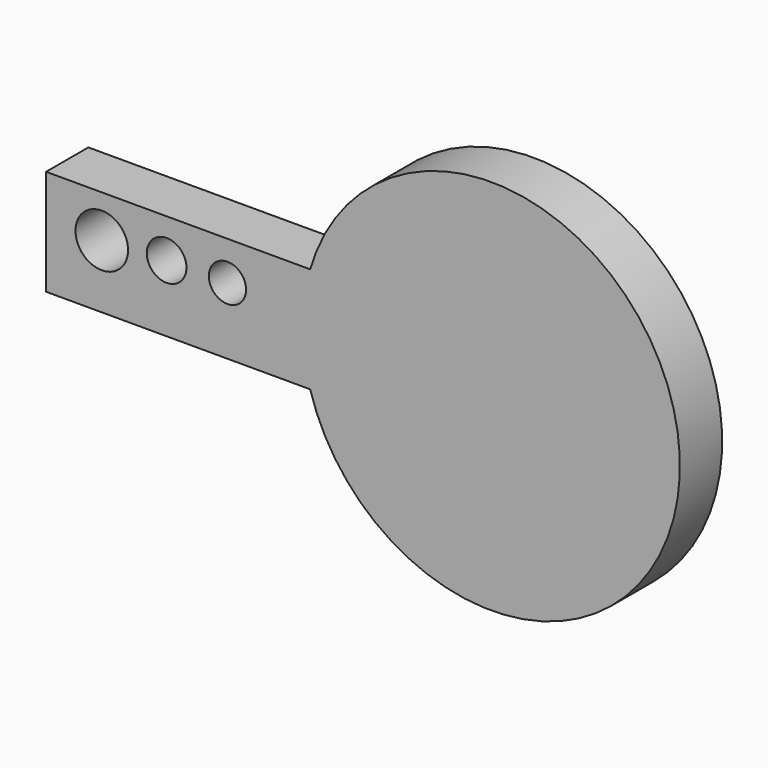
from build123d import *

# Parameters (mm, degrees)
F0_W     = 127
F0_H     = 50.8
F0_R     = 12.6365
F0_R_2   = 9.525
F0_R_3   = 8.9535
F1_DEPTH = 25.4


with BuildPart() as f1:
    # F0 (on Front) → F1 (new body)
    with BuildSketch(Plane.XZ):
        with Locations((-58.905346, 25.4)):
            Rectangle(F0_W, F0_H)
        with Locations((-95.625527, 30.434817)):
            Circle(F0_R, mode=Mode.SUBTRACT)
        with Locations((-64.432904, 32.12858)):
            Circle(F0_R_2, mode=Mode.SUBTRACT)
        with Locations((-35.189819, 32.12858)):
            Circle(F0_R_3, mode=Mode.SUBTRACT)
        with BuildLine():
            ThreePointArc((4.594654, 0), (182.394654, 25.4), (4.594654, 50.8))
            Line((4.594654, 50.8), (4.594654, 0))
        make_face()
    extrude(amount=F1_DEPTH)


solid = f1.part
